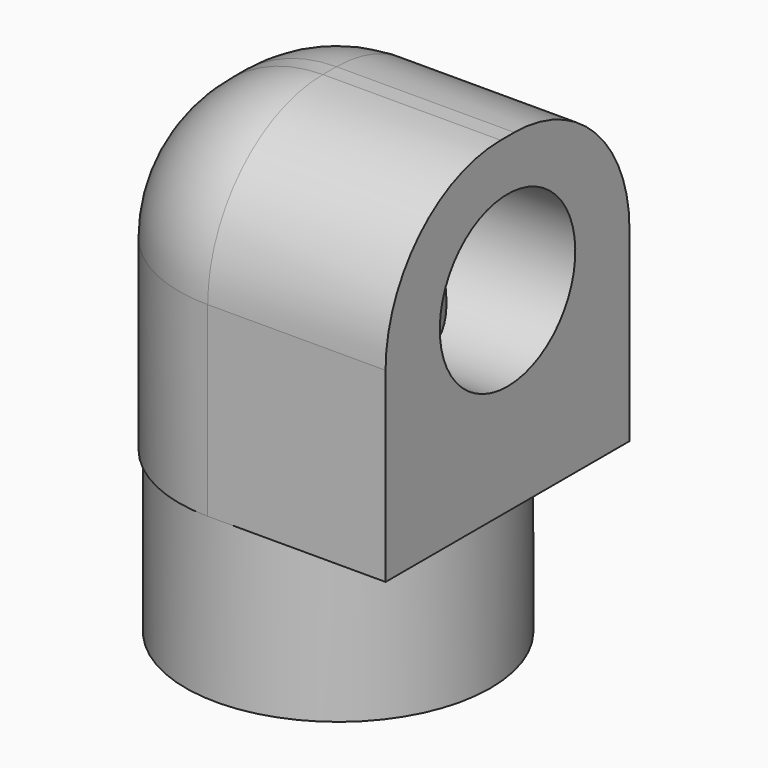
from build123d import *

# Parameters (mm, degrees)
CYLINDER021_R     = 5
CYLINDER021_DEPTH = 25
CYLINDER022_R     = 5
CYLINDER022_DEPTH = 15
CYLINDER020_R     = 9
CYLINDER020_DEPTH = 9.5
BOX007_W          = 19
BOX007_H          = 18
BOX007_DEPTH      = 19.5
FILLET_R          = 8.5


with BuildPart() as obj1_hole:
    # Cylinder021 → Cylinder021 (new body)
    with BuildSketch(Plane.XY):
        Circle(CYLINDER021_R)
    extrude(amount=CYLINDER021_DEPTH)


with BuildPart() as obj2:
    # Cylinder022 → Cylinder022 (new body)
    with BuildSketch(Plane(origin=(-5, 0, 21), x_dir=(0, 0, -1), z_dir=(1, 0, 0))):
        Circle(CYLINDER022_R)
    extrude(amount=CYLINDER022_DEPTH)

    # Fusion016: union obj1_hole
    add(obj1_hole.part)


with BuildPart() as obj1:
    # Cylinder020 → Cylinder020 (new body)
    with BuildSketch(Plane.XY):
        Circle(CYLINDER020_R)
    extrude(amount=CYLINDER020_DEPTH)


with BuildPart() as obj3:
    # Box007 → Box007 (new body)
    with BuildSketch(Plane(origin=(-9, -9, 9.5), x_dir=(1, 0, 0), z_dir=(0, 0, 1))):
        with Locations((9.5, 9)):
            Rectangle(BOX007_W, BOX007_H)
    extrude(amount=BOX007_DEPTH)

    # Fillet
    fillet_edges = [obj3.edges().sort_by_distance(p)[0] for p in [
        (-9, -9, 19.25),
        (-9, 0, 29),
        (-9, 9, 19.25),
        (0.5, -9, 29),
        (0.5, 9, 29),
    ]]
    fillet(fillet_edges, radius=FILLET_R)

    # Fusion018: union obj1
    add(obj1.part)

    # Cut009: cut obj2
    add(obj2.part, mode=Mode.SUBTRACT)


solid = obj3.part
